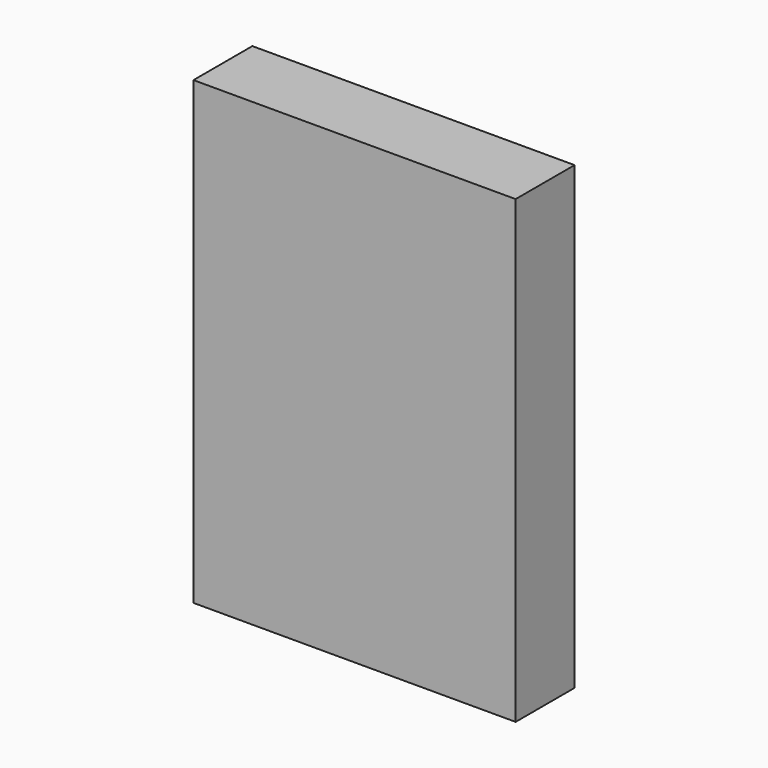
from build123d import *

# Parameters (mm, degrees)
SKETCH_W      = 35
SKETCH_H      = 8
EXTRUDE_DEPTH = 50


with BuildPart() as part:
    # Sketch → Extrude (new body)
    with BuildSketch(Plane.XY):
        Rectangle(SKETCH_W, SKETCH_H)
    extrude(amount=EXTRUDE_DEPTH)


solid = part.part
